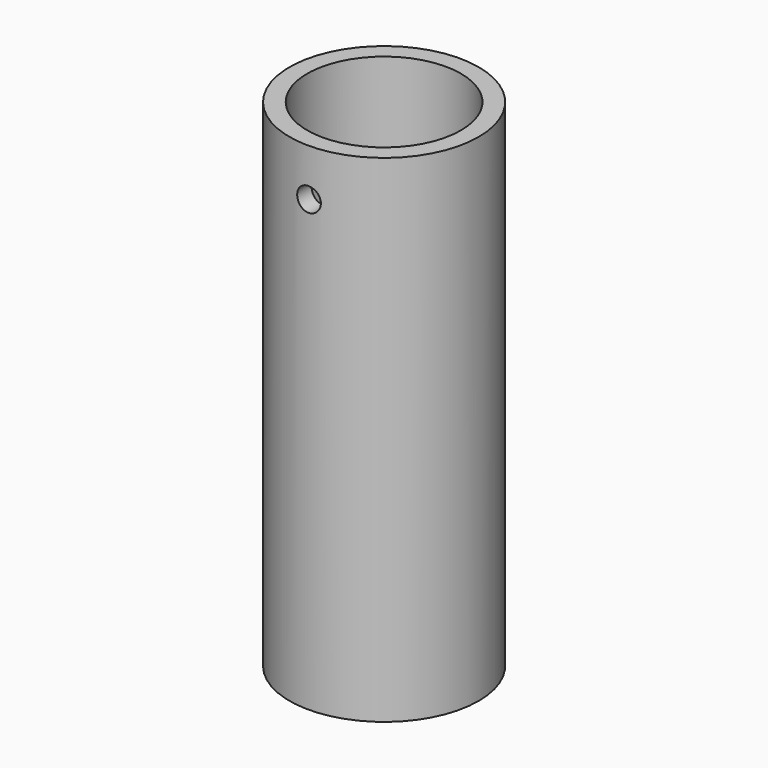
from build123d import *

# Parameters (mm, degrees)
F0_R     = 80
F0_R_2   = 65
F1_DEPTH = 210
F2_R     = 10
F3_DEPTH = 80.001


with BuildPart() as f1:
    # F0 (on Top) → F1 (new body, symmetric)
    with BuildSketch(Plane.XY):
        Circle(F0_R)
        Circle(F0_R_2, mode=Mode.SUBTRACT)
    extrude(amount=F1_DEPTH, both=True)

    # F2 (on Front) → F3 (cut, through all)
    with BuildSketch(Plane.XZ):
        with Locations((0, 170)):
            Circle(F2_R)
    extrude(amount=F3_DEPTH, mode=Mode.SUBTRACT)


solid = f1.part
